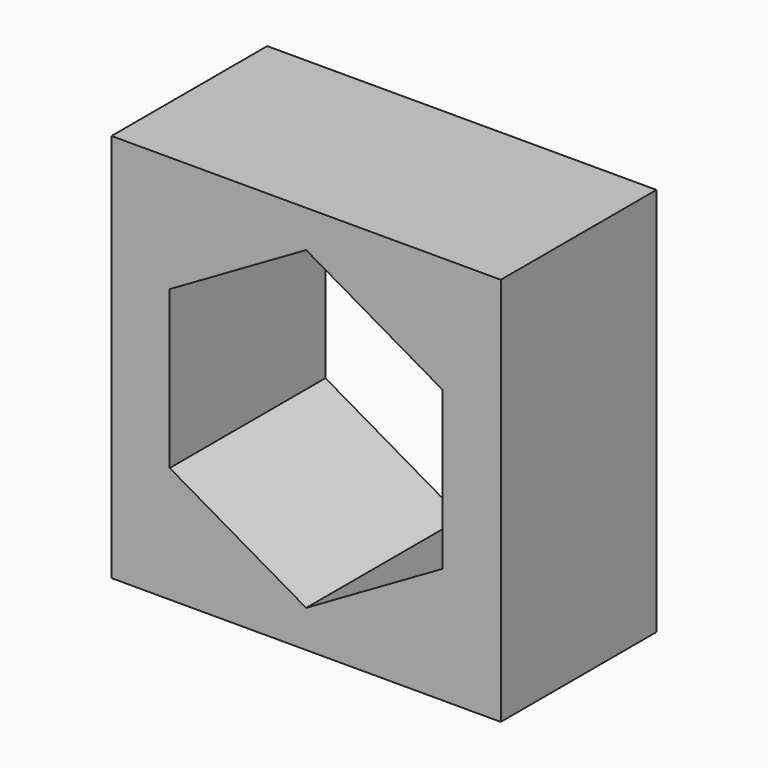
from build123d import *

# Parameters (mm, degrees)
F0_W     = 50.8
F0_H     = 50.8
F1_DEPTH = 25.4


with BuildPart() as f1:
    # F0 (on Front) → F1 (new body)
    with BuildSketch(Plane.XZ):
        with Locations((25.4, 25.4)):
            Rectangle(F0_W, F0_H)
        Polygon((25.4, 45.957155), (43.203019, 35.678578), (43.203019, 15.121422), (25.4, 4.842845), (7.596981, 15.121422), (7.596981, 35.678578), align=None, mode=Mode.SUBTRACT)
    extrude(amount=F1_DEPTH)


solid = f1.part
